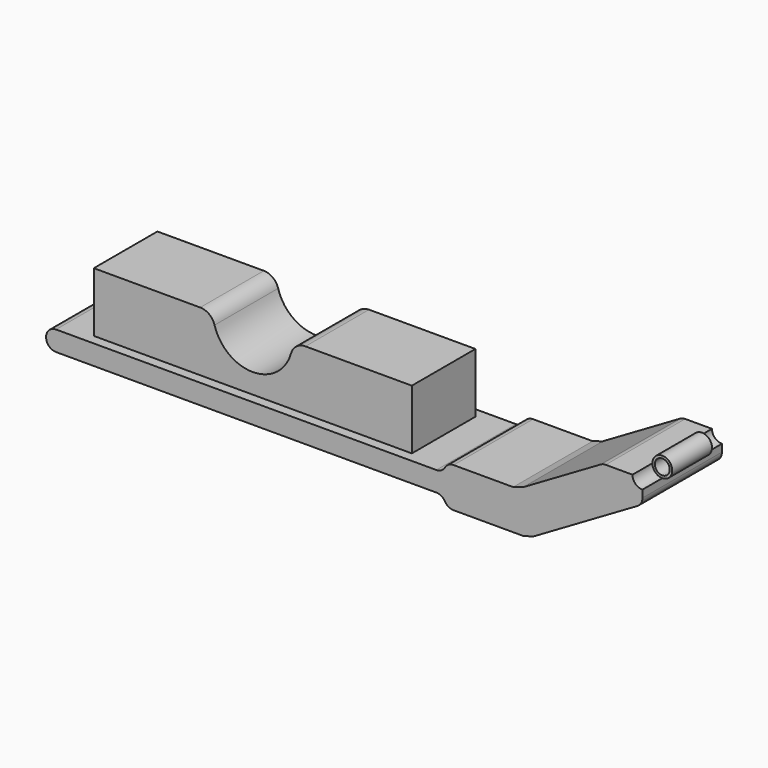
from build123d import *

# Parameters (mm, degrees)
F1_DEPTH      = 31.75
F1_DEPTH_BACK = 31.75
F2_DEPTH      = 25.4
F2_DEPTH_BACK = 25.4
F3_R          = 6.35
F4_DEPTH      = 15.875
F5_R          = 6.35
F6_DEPTH      = 15.875


with BuildPart() as f1:
    # F0 (on Front) → F1 (new body, two sides)
    with BuildSketch(Plane.XZ) as f1_sk:
        with BuildLine():
            Line((0, -11.055585), (0, -6.35))
            ThreePointArc((0, -6.35), (4.490128, 4.490128), (-6.35, 0))
            Line((-6.35, 0), (-23.488146, 0))
            ThreePointArc((-23.488146, 0), (-25.145368, -0.220064), (-26.687727, -0.865004))
            Line((-26.687727, -0.865004), (-76.2, -29.747163))
            Line((-76.2, -29.747163), (-82.599162, -31.75))
            Line((-82.599162, -31.75), (-120.65, -31.75))
            ThreePointArc((-120.65, -31.75), (-123.825, -32.600739), (-126.149261, -34.925))
            ThreePointArc((-126.149261, -34.925), (-128.473523, -37.249261), (-131.648523, -38.1))
            Line((-131.648523, -38.1), (-152.4, -38.1))
            Line((-152.4, -38.1), (-355.6, -38.1))
            Line((-355.6, -38.1), (-374.65, -38.1))
            ThreePointArc((-374.65, -38.1), (-379.140128, -39.959872), (-381, -44.45))
            ThreePointArc((-381, -44.45), (-379.140128, -48.940128), (-374.65, -50.8))
            Line((-374.65, -50.8), (-131.648523, -50.8))
            ThreePointArc((-131.648523, -50.8), (-128.473523, -51.650739), (-126.149261, -53.975))
            ThreePointArc((-126.149261, -53.975), (-123.825, -56.299261), (-120.65, -57.15))
            Line((-120.65, -57.15), (-76.2, -57.15))
            Line((-76.2, -57.15), (-69.800838, -55.419992))
            Line((-69.800838, -55.419992), (-3.150419, -16.540581))
            ThreePointArc((-3.150419, -16.540581), (-0.843647, -14.218271), (0, -11.055585))
        make_face()
        with BuildLine():
            ThreePointArc((-4.7625, 0), (0, 4.7625), (4.7625, 0))
            ThreePointArc((4.7625, 0), (0, -4.7625), (-4.7625, 0))
        make_face(mode=Mode.SUBTRACT)
    extrude(amount=F1_DEPTH)
    extrude(f1_sk.sketch, amount=-F1_DEPTH_BACK)

    # F0 (on Front) → F2 (join, two sides)
    with BuildSketch(Plane.XZ) as f2_sk:
        with BuildLine():
            ThreePointArc((-4.7625, 0), (0, -4.7625), (4.7625, 0))
            ThreePointArc((4.7625, 0), (0, 4.7625), (-4.7625, 0))
        make_face()
        with BuildLine():
            Line((0, -11.055585), (0, -6.35))
            ThreePointArc((0, -6.35), (4.490128, 4.490128), (-6.35, 0))
            Line((-6.35, 0), (-23.488146, 0))
            ThreePointArc((-23.488146, 0), (-25.145368, -0.220064), (-26.687727, -0.865004))
            Line((-26.687727, -0.865004), (-76.2, -29.747163))
            Line((-76.2, -29.747163), (-82.599162, -31.75))
            Line((-82.599162, -31.75), (-120.65, -31.75))
            ThreePointArc((-120.65, -31.75), (-123.825, -32.600739), (-126.149261, -34.925))
            ThreePointArc((-126.149261, -34.925), (-128.473523, -37.249261), (-131.648523, -38.1))
            Line((-131.648523, -38.1), (-152.4, -38.1))
            Line((-152.4, -38.1), (-355.6, -38.1))
            Line((-355.6, -38.1), (-374.65, -38.1))
            ThreePointArc((-374.65, -38.1), (-379.140128, -39.959872), (-381, -44.45))
            ThreePointArc((-381, -44.45), (-379.140128, -48.940128), (-374.65, -50.8))
            Line((-374.65, -50.8), (-131.648523, -50.8))
            ThreePointArc((-131.648523, -50.8), (-128.473523, -51.650739), (-126.149261, -53.975))
            ThreePointArc((-126.149261, -53.975), (-123.825, -56.299261), (-120.65, -57.15))
            Line((-120.65, -57.15), (-76.2, -57.15))
            Line((-76.2, -57.15), (-69.800838, -55.419992))
            Line((-69.800838, -55.419992), (-3.150419, -16.540581))
            ThreePointArc((-3.150419, -16.540581), (-0.843647, -14.218271), (0, -11.055585))
        make_face()
        with BuildLine():
            ThreePointArc((-4.7625, 0), (0, 4.7625), (4.7625, 0))
            ThreePointArc((4.7625, 0), (0, -4.7625), (-4.7625, 0))
        make_face(mode=Mode.SUBTRACT)
        with BuildLine():
            Line((-355.6, -38.1), (-152.4, -38.1))
            Line((-152.4, -38.1), (-152.4, 0))
            Line((-152.4, 0), (-220.398958, 0))
            ThreePointArc((-220.398958, 0), (-226.142749, -1.926679), (-229.562879, -6.927273))
            ThreePointArc((-229.562879, -6.927273), (-254, -25.4), (-278.437121, -6.927273))
            ThreePointArc((-278.437121, -6.927273), (-281.857251, -1.926679), (-287.601042, 0))
            Line((-287.601042, 0), (-355.6, 0))
            Line((-355.6, 0), (-355.6, -38.1))
        make_face()
    extrude(amount=F2_DEPTH)
    extrude(f2_sk.sketch, amount=-F2_DEPTH_BACK)

    # F3 (on face) → F4 (cut)
    with BuildSketch(Plane(origin=(0, 31.75, 0), x_dir=(-1, 0, 0), z_dir=(0, 1, 0))):
        Circle(F3_R)
    extrude(amount=-F4_DEPTH, mode=Mode.SUBTRACT)

    # F5 (on face) → F6 (cut)
    with BuildSketch(Plane.XZ.offset(31.75)):
        Circle(F5_R)
    extrude(amount=-F6_DEPTH, mode=Mode.SUBTRACT)


solid = f1.part
